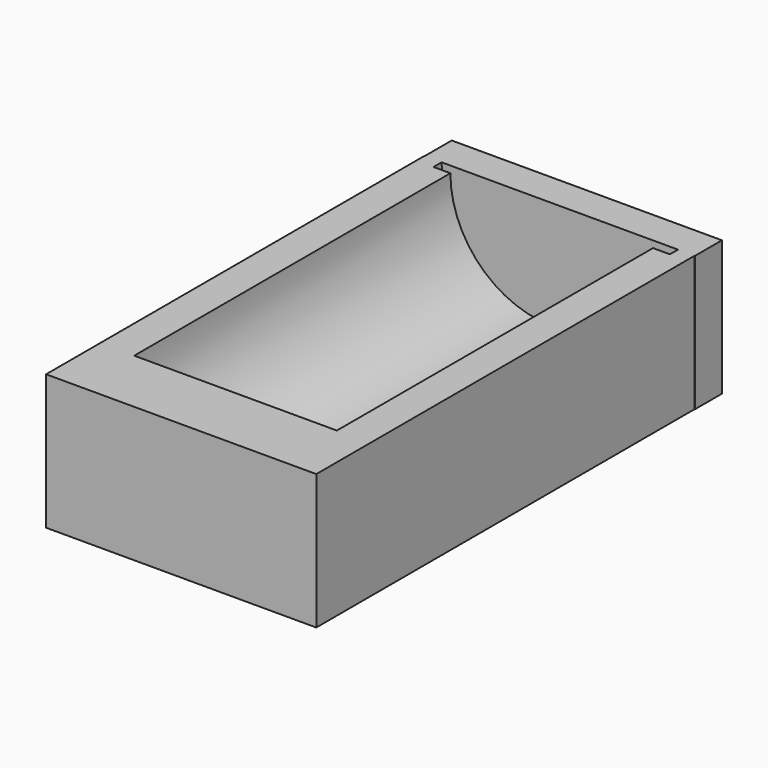
from build123d import *

# Parameters (mm, degrees)
F0_W     = 101.6
F0_H     = 50.8
F1_DEPTH = 177.8
F4_DEPTH = 152.4
F6_DEPTH = 3.81
F8_DEPTH = 12.7


with BuildPart() as f1:
    # F0 (on Front) → F1 (new body)
    with BuildSketch(Plane.XZ):
        with Locations((-0.1263681454, -25.4)):
            Rectangle(F0_W, F0_H)
    extrude(amount=F1_DEPTH)

    # F3 (on Front) → F4 (cut)
    with BuildSketch(Plane.XZ):
        with BuildLine():
            Line((0, -38.1), (0, 0))
            Line((0, 0), (-38.1, 0))
            ThreePointArc((-38.1, 0), (-26.9407683632, -26.9407683632), (0, -38.1))
        make_face()
        with BuildLine():
            Line((38.1, 0), (0, 0))
            Line((0, 0), (0, -38.1))
            ThreePointArc((0, -38.1), (26.9407683632, -26.9407683632), (38.1, 0))
        make_face()
    extrude(amount=F4_DEPTH, mode=Mode.SUBTRACT)

    # F5 (on face) → F6 (cut)
    with BuildSketch(Plane(origin=(0, 0, 0), x_dir=(-1, 0, 0), z_dir=(0, 1, 0))):
        with BuildLine():
            Line((0, -38.1), (0, -44.45))
            ThreePointArc((0, -44.45), (31.4308964237, -31.4308964237), (44.45, 0))
            Line((44.45, 0), (38.1, 0))
            ThreePointArc((38.1, 0), (26.9407683632, -26.9407683632), (0, -38.1))
        make_face()
        with BuildLine():
            Line((-38.1, 0), (-44.45, 0))
            ThreePointArc((-44.45, 0), (-31.4308964237, -31.4308964237), (0, -44.45))
            Line((0, -44.45), (0, -38.1))
            ThreePointArc((0, -38.1), (-26.9407683632, -26.9407683632), (-38.1, 0))
        make_face()
    extrude(amount=-F6_DEPTH, mode=Mode.SUBTRACT)

    # F7 (on face) → F8 (join)
    with BuildSketch(Plane(origin=(0, 0, 0), x_dir=(-1, 0, 0), z_dir=(0, 1, 0))):
        Polygon((50.8, 0), (0, 0), (-50.8, 0), (-50.8, -50.8), (50.8, -50.8), align=None)
    extrude(amount=F8_DEPTH)


solid = f1.part
